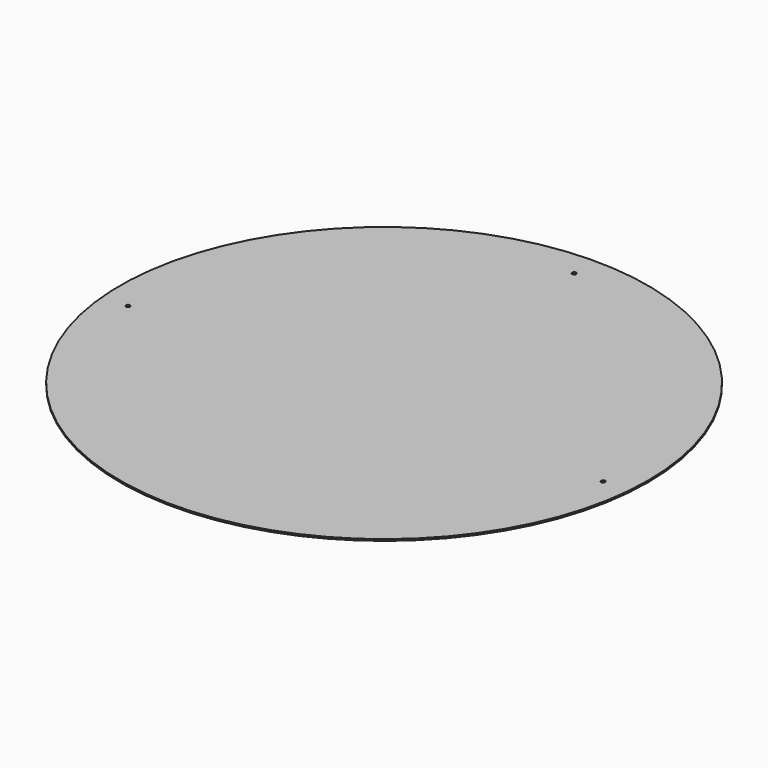
from build123d import *

# Parameters (mm, degrees)
CYLINDER003_R               = 0.62
CYLINDER003_DEPTH           = 0.5
CYLINDER002_R               = 0.62
CYLINDER002_DEPTH           = 0.5
CYLINDER001_R               = 0.62
CYLINDER001_DEPTH           = 0.5
CYLINDER001_PLACEMENT_ANGLE = -2
CYLINDER_R                  = 80
CYLINDER_DEPTH              = 0.5


with BuildPart() as cilindro003:
    # Cylinder003 → Cylinder003 (new body)
    with BuildSketch(Plane(origin=(0, 72, 0), x_dir=(1, 0, 0), z_dir=(0, 0, 1))):
        Circle(CYLINDER003_R)
    extrude(amount=CYLINDER003_DEPTH)


with BuildPart() as cilindro002:
    # Cylinder002 → Cylinder002 (new body)
    with BuildSketch(Plane(origin=(-72, -7, 0), x_dir=(1, 0, 0), z_dir=(0, 0, 1))):
        Circle(CYLINDER002_R)
    extrude(amount=CYLINDER002_DEPTH)


with BuildPart() as cilindro001:
    # Cylinder001 → Cylinder001 (new body)
    with BuildSketch(Plane.XY):
        Circle(CYLINDER001_R)
    extrude(amount=CYLINDER001_DEPTH)


with BuildPart() as cilindro001_1:
    # Cylinder001 placement: moved
    add(cilindro001.part.moved(Location((72, -7, 0))).rotate(Axis((72, -7, 0), (0, 0, 1)), CYLINDER001_PLACEMENT_ANGLE))


with BuildPart() as cut002:
    # Cylinder → Cylinder (new body)
    with BuildSketch(Plane.XY):
        Circle(CYLINDER_R)
    extrude(amount=CYLINDER_DEPTH)

    # Cut: cut Cilindro001
    add(cilindro001_1.part, mode=Mode.SUBTRACT)

    # Cut001: cut Cilindro002
    add(cilindro002.part, mode=Mode.SUBTRACT)

    # Cut002: cut Cilindro003
    add(cilindro003.part, mode=Mode.SUBTRACT)


with BuildPart() as cut002_1:
    # Cut002 placement: moved
    add(cut002.part.moved(Location((0, 0, -1))))


solid = cut002_1.part
